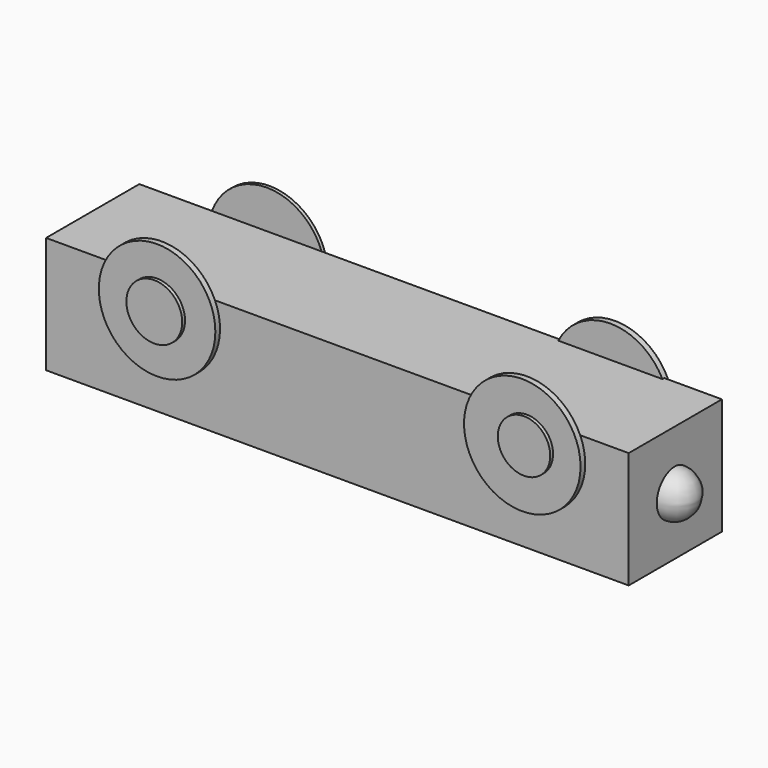
from build123d import *

# Parameters (mm, degrees)
F0_W        = 50
F0_H        = 10
F1_DEPTH    = 10
F6_R        = 1.9266917223
F6_R_2      = 1.9
F7_DEPTH    = 1.3
F8_R        = 5
F9_DEPTH    = 0.3
F10_R       = 2.1641458578
F10_R_2     = 2.4269700637
F11_DEPTH   = 0.1
F12_R       = 5
F9_FACE_R   = 5
F9_FACE_R_2 = 2.1641458578
F13_DEPTH   = 0.5
F14_R       = 2.3958078531
F14_R_2     = 2.2509065457
F15_DEPTH   = 0.3


with BuildPart() as f1:
    # F0 (on Front) → F1 (new body)
    with BuildSketch(Plane.XZ):
        Rectangle(F0_W, F0_H)
    extrude(amount=F1_DEPTH)

    # F2 (on face) → F3 (revolve)
    with BuildSketch(Plane(origin=(-25, 0, 0), x_dir=(0, -1, 0), z_dir=(-1, 0, 0))):
        with BuildLine():
            Line((5.0272470243, -2.1332798184), (5.0349561498, 2.1332937478))
            ThreePointArc((5.0349561498, 2.1332937478), (2.9016658843, 0.003854569), (5.0272470243, -2.1332798184))
        make_face()
    revolve(axis=Axis((-25, -5.031101587, 6.9647e-06), (0, -0.0018068628, 0.9999983676)))

    # F4 (on face) → F5 (revolve)
    with BuildSketch(Plane.YZ.offset(25)):
        with BuildLine():
            Line((-4.9891843771, 1.9892971213), (-5.1958168123, -2))
            ThreePointArc((-5.1958168123, -2), (-3.1984943243, -0.1034547182), (-4.9891843771, 1.9892971213))
        make_face()
    revolve(axis=Axis((25, -5.0925005947, -0.0053514394), (0, -0.0517273591, -0.998661244)))

    # F6 (on face) → F7 (join)
    with BuildSketch(Plane(origin=(0, 0, -5), x_dir=(1, 0, 0), z_dir=(0, 0, -1))):
        with Locations((9.6414467316, 4.5277345248)):
            Circle(F6_R)
        with Locations((-6.1805609805, 4.848821828)):
            Circle(F6_R_2)
    extrude(amount=F7_DEPTH)

    # F8 (on face) → F9 (join)
    with BuildSketch(Plane(origin=(0, 0, 0), x_dir=(-1, 0, 0), z_dir=(0, 1, 0))):
        with Locations((-15.5897088814, 2.747657924)):
            Circle(F8_R)
        with Locations((14.0602564656, 3.2986411754)):
            Circle(F8_R)
    extrude(amount=F9_DEPTH)

    # F10 (on face) → F11 (join)
    with BuildSketch(Plane(origin=(0, 0.3, 0), x_dir=(-1, 0, 0), z_dir=(0, 1, 0))):
        with Locations((-15.5897088814, 2.747657924)):
            Circle(F10_R)
        with Locations((13.8790579513, 3.297669813)):
            Circle(F10_R_2)
    extrude(amount=F11_DEPTH)

    # F12 (on face) + F9_face (on face) → F13 (join)
    with BuildSketch(Plane.XZ.offset(10)):
        with Locations((-15.0730120336, 2.9676440172)):
            Circle(F12_R)
        with Locations((16.2682671349, 2.9676440172)):
            Circle(F12_R)
    with BuildSketch(Plane(origin=(15.5897088814, 0.3, 2.747657924), x_dir=(-1, 0, 0), z_dir=(0, 1, 0))):
        Circle(F9_FACE_R)
        Circle(F9_FACE_R_2, mode=Mode.SUBTRACT)
    extrude(amount=F13_DEPTH, dir=(0, -1, 0))

    # F14 (on face) → F15 (join)
    with BuildSketch(Plane.XZ.offset(10.5)):
        with Locations((-15.0730120336, 2.9676440172)):
            Circle(F14_R)
        with Locations((16.6567061096, 3.1512691639)):
            Circle(F14_R_2)
    extrude(amount=F15_DEPTH)


solid = f1.part
